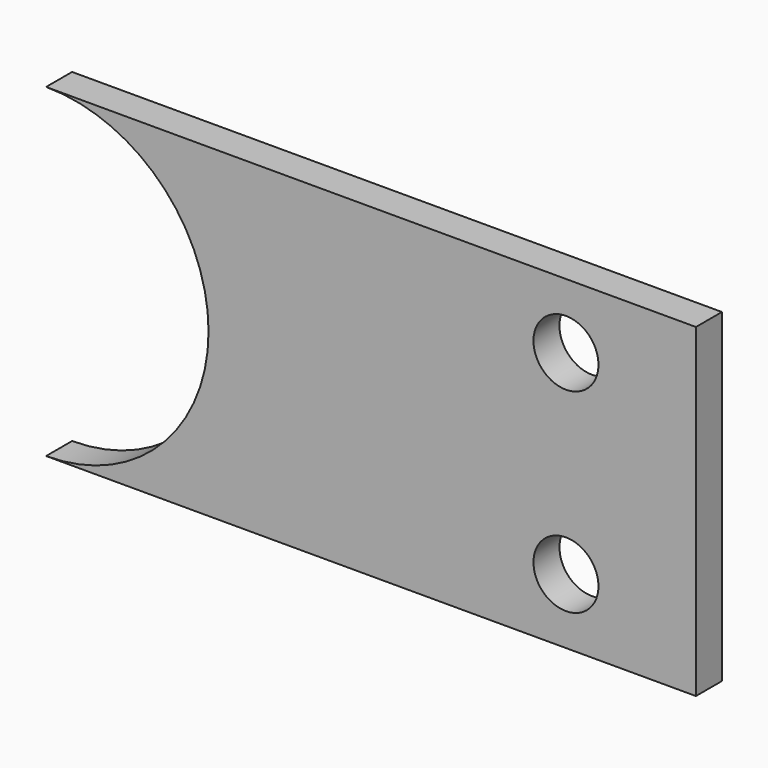
from build123d import *

# Parameters (mm, degrees)
F1_DEPTH = 5


with BuildPart() as f1:
    # F0 (on Front) → F1 (new body)
    with BuildSketch(Plane.XZ):
        with BuildLine():
            Line((0, 40), (0, 10))
            Line((0, 10), (15, 10))
            ThreePointArc((15, 10), (20, 15), (25, 10))
            Line((25, 10), (40, 10))
            Line((40, 10), (40, 40))
            Line((40, 40), (25, 40))
            ThreePointArc((25, 40), (20, 35), (15, 40))
            Line((15, 40), (0, 40))
        make_face()
        with BuildLine():
            Line((0, 50), (0, 40))
            Line((0, 40), (15, 40))
            ThreePointArc((15, 40), (20, 45), (25, 40))
            Line((25, 40), (40, 40))
            Line((40, 40), (40, 50))
            Line((40, 50), (0, 50))
        make_face()
        with BuildLine():
            Line((0, 10), (0, 0))
            Line((0, 0), (40, 0))
            Line((40, 0), (40, 10))
            Line((40, 10), (25, 10))
            ThreePointArc((25, 10), (20, 5), (15, 10))
            Line((15, 10), (0, 10))
        make_face()
        with BuildLine():
            Line((-40, 10), (0, 10))
            Line((0, 10), (0, 40))
            Line((0, 40), (-40, 40))
            ThreePointArc((-40, 40), (-36.2829175487, 32.9056941504), (-35, 25))
            ThreePointArc((-35, 25), (-36.2829175487, 17.0943058496), (-40, 10))
        make_face()
        with BuildLine():
            Line((-40, 40), (0, 40))
            Line((0, 40), (0, 50))
            Line((0, 50), (-60, 50))
            ThreePointArc((-60, 50), (-48.8196601125, 47.360679775), (-40, 40))
        make_face()
        with BuildLine():
            Line((-60, 0), (0, 0))
            Line((0, 0), (0, 10))
            Line((0, 10), (-40, 10))
            ThreePointArc((-40, 10), (-48.8196601125, 2.639320225), (-60, 0))
        make_face()
    extrude(amount=F1_DEPTH)


solid = f1.part
